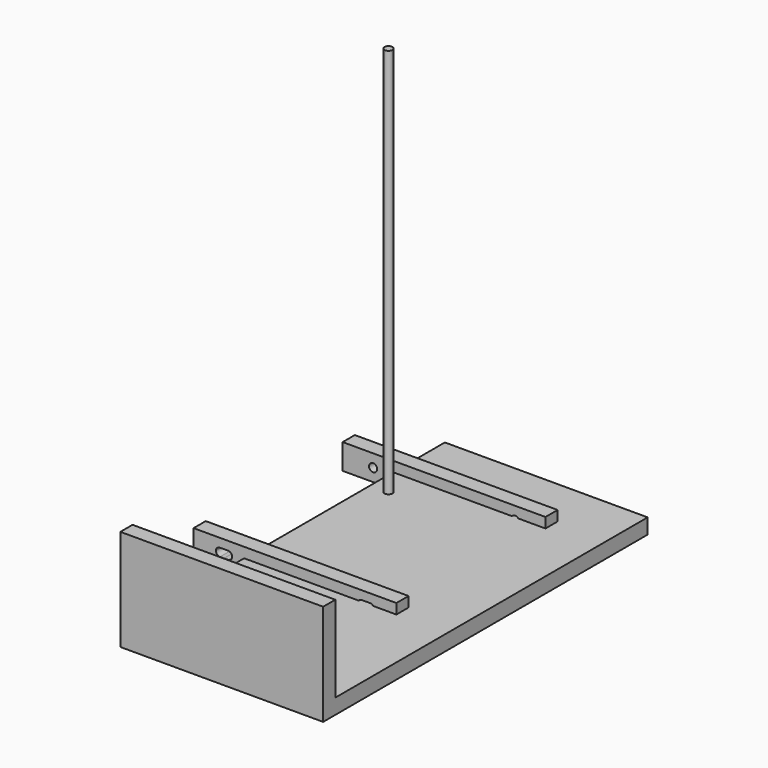
from build123d import *

# Parameters (mm, degrees)
F0_W      = 200
F0_H      = 15
F1_DEPTH  = 25
F2_R      = 4
F3_DEPTH  = 400
F4_R      = 4
F5_DEPTH  = 400
F7_DEPTH  = 25
F8_W      = 200
F8_H      = 400
F9_DEPTH  = 15
F12_DEPTH = 100


with BuildPart() as f1:
    # F0 (on Top) → F1 (new body)
    with BuildSketch(Plane.XY):
        with Locations((0, 92.1094161626)):
            Rectangle(F0_W, F0_H)
    extrude(amount=F1_DEPTH)


with BuildPart() as f1b:
    # F0 (on Top) → F1, piece 2 (new body)
    with BuildSketch(Plane.XY):
        with Locations((0, -91.6406753098)):
            Rectangle(F0_W, F0_H)
    extrude(amount=F1_DEPTH)


with BuildPart() as f3_tool:
    # F2 (on face) → F3 (new body)
    with BuildSketch(Plane(origin=(0, 99.6094161626, 0), x_dir=(-1, 0, 0), z_dir=(0, 1, 0))):
        with Locations((-70, 12.5)):
            Circle(F2_R)
        with Locations((70, 12.5)):
            Circle(F2_R)
    extrude(amount=-F3_DEPTH)


with BuildPart() as f1_1:
    add(f1.part)

    # F3: cut by f3_tool
    add(f3_tool.part, mode=Mode.SUBTRACT)


with BuildPart() as f1b_1:
    add(f1b.part)

    # F3: cut by f3_tool
    add(f3_tool.part, mode=Mode.SUBTRACT)

    # F6 (on face) → F7 (cut)
    with BuildSketch(Plane.XZ.offset(99.1406753098)):
        with BuildLine():
            ThreePointArc((-66.2642582634, 16.4912614009), (-68.9203623965, 15.2334014475), (-70, 12.5))
            Line((-70, 12.5), (-62, 12.5))
            ThreePointArc((-62, 12.5), (-63.2665985525, 15.4203623965), (-66.2642582634, 16.4912614009))
        make_face()
        with BuildLine():
            ThreePointArc((-73.9189131124, 8.5008219699), (-71.1430481672, 9.700388201), (-70, 12.5))
            Line((-70, 12.5), (-78, 12.5))
            ThreePointArc((-78, 12.5), (-76.799611799, 9.6430481672), (-73.9189131124, 8.5008219699))
        make_face()
        with BuildLine():
            Line((-78, 12.5), (-70, 12.5))
            ThreePointArc((-70, 12.5), (-71.0796376035, 15.2334014475), (-73.7357417366, 16.4912614009))
            ThreePointArc((-73.7357417366, 16.4912614009), (-76.7334014475, 15.4203623965), (-78, 12.5))
        make_face()
        with BuildLine():
            ThreePointArc((-66.0004152042, 8.5000000215), (-68.8285739178, 9.6717196759), (-70, 12.5))
            ThreePointArc((-70, 12.5), (-71.1430481672, 9.700388201), (-73.9189131124, 8.5008219699))
            Line((-73.9189131124, 8.5008219699), (-66.0004152042, 8.5000000215))
        make_face()
        with BuildLine():
            ThreePointArc((-73.7357417366, 16.4912614009), (-71.0796376035, 15.2334014475), (-70, 12.5))
            ThreePointArc((-70, 12.5), (-68.9203623965, 15.2334014475), (-66.2642582634, 16.4912614009))
            Line((-66.2642582634, 16.4912614009), (-73.7357417366, 16.4912614009))
        make_face()
        with BuildLine():
            Line((-62, 12.5), (-70, 12.5))
            ThreePointArc((-70, 12.5), (-68.8285739178, 9.6717196759), (-66.0004152042, 8.5000000215))
            ThreePointArc((-66.0004152042, 8.5000000215), (-63.1717196759, 9.6714260822), (-62, 12.5))
        make_face()
        with BuildLine():
            ThreePointArc((66.2642582634, 16.4912614009), (63.2665985525, 15.4203623965), (62, 12.5))
            Line((62, 12.5), (70, 12.5))
            ThreePointArc((70, 12.5), (68.9203623965, 15.2334014475), (66.2642582634, 16.4912614009))
        make_face()
        with BuildLine():
            Line((70, 12.5), (62, 12.5))
            ThreePointArc((62, 12.5), (63.1717196759, 9.6714260822), (66.0004152042, 8.5000000215))
            ThreePointArc((66.0004152042, 8.5000000215), (68.8285739178, 9.6717196759), (70, 12.5))
        make_face()
        with BuildLine():
            ThreePointArc((73.7357417366, 16.4912614009), (71.0796376035, 15.2334014475), (70, 12.5))
            Line((70, 12.5), (78, 12.5))
            ThreePointArc((78, 12.5), (76.7334014475, 15.4203623965), (73.7357417366, 16.4912614009))
        make_face()
        with BuildLine():
            ThreePointArc((66.2642582634, 16.4912614009), (68.9203623965, 15.2334014475), (70, 12.5))
            ThreePointArc((70, 12.5), (71.0796376035, 15.2334014475), (73.7357417366, 16.4912614009))
            Line((73.7357417366, 16.4912614009), (66.2642582634, 16.4912614009))
        make_face()
        with BuildLine():
            Line((78, 12.5), (70, 12.5))
            ThreePointArc((70, 12.5), (71.1430481672, 9.700388201), (73.9189131124, 8.5008219699))
            ThreePointArc((73.9189131124, 8.5008219699), (76.799611799, 9.6430481672), (78, 12.5))
        make_face()
        with BuildLine():
            ThreePointArc((73.9189131124, 8.5008219699), (71.1430481672, 9.700388201), (70, 12.5))
            ThreePointArc((70, 12.5), (68.8285739178, 9.6717196759), (66.0004152042, 8.5000000215))
            Line((66.0004152042, 8.5000000215), (73.9189131124, 8.5008219699))
        make_face()
    extrude(amount=-F7_DEPTH, mode=Mode.SUBTRACT)


with BuildPart() as f5:
    # F4 (on Top) → F5 (new body)
    with BuildSketch(Plane.XY):
        with Locations((-32.4589386582, 56.7367635667)):
            Circle(F4_R)
    extrude(amount=F5_DEPTH)


with BuildPart() as f9:
    # F8 (on Top) → F9 (new body)
    with BuildSketch(Plane.XY):
        with Locations((49.8296707869, -51.7029643059)):
            Rectangle(F8_W, F8_H)
    extrude(amount=F9_DEPTH)

    # F11 (on face) → F12 (join)
    with BuildSketch(Plane(origin=(0, 0, 0), x_dir=(1, 0, 0), z_dir=(0, 0, -1))):
        Polygon((49.8296707869, 251.7029643059), (-50.1703292131, 251.7029643059), (-50.1703292131, 236.7029643059), (149.8296707869, 236.7029643059), (149.8296707869, 251.7029643059), align=None)
    extrude(amount=-F12_DEPTH)


solid = Compound([f1_1.part, f1b_1.part, f5.part, f9.part])
